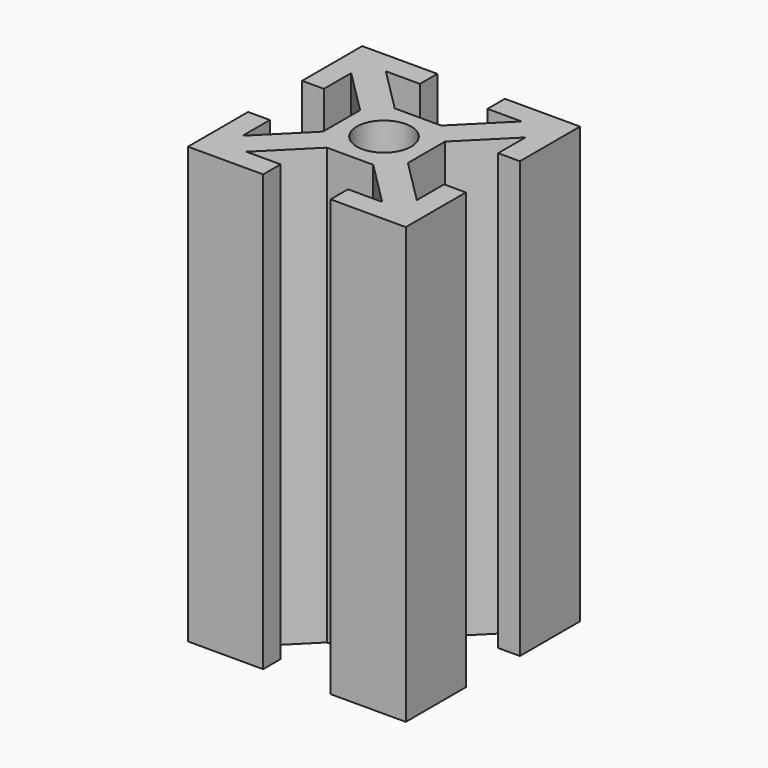
from build123d import *

# Parameters (mm, degrees)
SKETCH_W        = 20
SKETCH_H        = 20
PAD_DEPTH       = 40
SKETCH001_R     = 2.5
POCKET_DEPTH    = 40.001
POCKET001_DEPTH = 40.001


with BuildPart() as part:
    # Sketch → Pad (new body)
    with BuildSketch(Plane.XY):
        Rectangle(SKETCH_W, SKETCH_H)
    extrude(amount=PAD_DEPTH)

    # Sketch001 (on Face6 of Pad) → Pocket (cut, through all)
    with BuildSketch(Plane.XY.offset(40)):
        Circle(SKETCH001_R)
        Polygon((-3.1, 10), (3.1, 10), (3.1, 8), (6.232233, 8), (2.132233, 3.9), (-2.132233, 3.9), (-6.232233, 8), (-3.1, 8), align=None)
        Polygon((-3.1, -8), (-6.232233, -8), (-2.132233, -3.9), (2.132233, -3.9), (6.232233, -8), (3.1, -8), (3.1, -10), (-3.1, -10), align=None)
    extrude(amount=-POCKET_DEPTH, mode=Mode.SUBTRACT)

    # Sketch002 (on Face2 of Pocket) → Pocket001 (cut, through all)
    with BuildSketch(Plane(origin=(0, 0, 0), x_dir=(1, 0, 0), z_dir=(0, 0, -1))):
        Polygon((-10, -3.1), (-8, -3.1), (-8, -6.232233), (-3.9, -2.132233), (-3.9, 2.132233), (-8, 6.232233), (-8, 3.1), (-10, 3.1), align=None)
        Polygon((3.9, -2.132233), (3.9, 2.132233), (8, 6.232233), (8, 3.1), (10, 3.1), (10, -3.1), (8, -3.1), (8, -6.232233), align=None)
    extrude(amount=-POCKET001_DEPTH, mode=Mode.SUBTRACT)


solid = part.part
